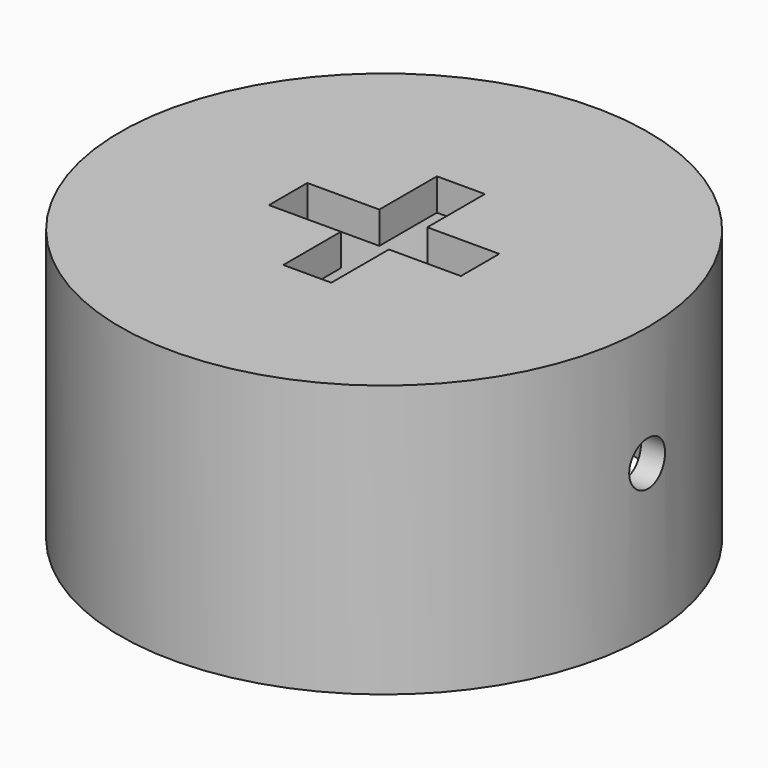
from build123d import *

# Parameters (mm, degrees)
F0_R     = 16.5
F1_DEPTH = 17
F2_R     = 15
F3_DEPTH = 15
F4_R     = 1.4
F5_DEPTH = 20
F7_DEPTH = 2


with BuildPart() as f1:
    # F0 (on Top) → F1 (new body)
    with BuildSketch(Plane.XY):
        Circle(F0_R)
    extrude(amount=F1_DEPTH)

    # F2 (on Top) → F3 (cut)
    with BuildSketch(Plane.XY):
        Circle(F2_R)
    extrude(amount=F3_DEPTH, mode=Mode.SUBTRACT)

    # F4 (on Right) → F5 (cut, symmetric)
    with BuildSketch(Plane.YZ):
        with Locations((0, 9.5)):
            Circle(F4_R)
    extrude(amount=F5_DEPTH, both=True, mode=Mode.SUBTRACT)

    # F6 (on face) → F7 (cut)
    with BuildSketch(Plane.XY.offset(17)):
        Polygon((1.5, 6), (-1.5, 6), (-1.5, 1.5), (0.375, 1.5), align=None)
        Polygon((1.5, 1.5), (1.5, 6), (0.375, 1.5), align=None)
        Polygon((0.375, 1.5), (-1.5, 1.5), (-1.5, -0.375), (0, 0), align=None)
        Polygon((-1.5, -0.375), (-1.5, 1.5), (-6, 1.5), (-6, -1.5), align=None)
        Polygon((6, 1.5), (1.5, 1.5), (1.5, 0.375), align=None)
        Polygon((1.5, 0.375), (1.5, 1.5), (0.375, 1.5), (0, 0), align=None)
        Polygon((0, 0), (-1.5, -0.375), (-1.5, -1.5), (-0.375, -1.5), align=None)
        Polygon((-1.5, -1.5), (-1.5, -0.375), (-6, -1.5), align=None)
        Polygon((6, 1.5), (1.5, 0.375), (1.5, -1.5), (6, -1.5), align=None)
        Polygon((1.5, -1.5), (1.5, 0.375), (0, 0), (-0.375, -1.5), align=None)
        Polygon((-0.375, -1.5), (-1.5, -1.5), (-1.5, -6), align=None)
        Polygon((1.5, -6), (1.5, -1.5), (-0.375, -1.5), (-1.5, -6), align=None)
    extrude(amount=-F7_DEPTH, mode=Mode.SUBTRACT)


solid = f1.part
